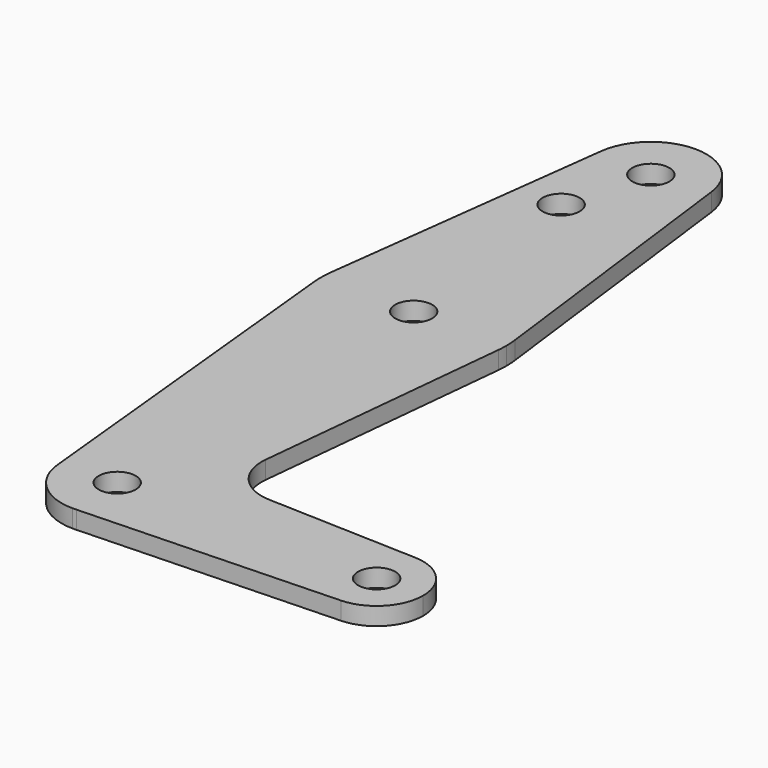
from build123d import *

# Parameters (mm, degrees)
F0_R     = 3.175
F1_DEPTH = 3.048


with BuildPart() as f1:
    # F0 (on Top) → F1 (new body)
    with BuildSketch(Plane.XY):
        with BuildLine():
            ThreePointArc((0.666693, -9.501639), (6.966917, -6.495205), (9.525, 0))
            ThreePointArc((9.525, 0), (-0.476848, 9.513056), (-9.477255, -0.9525))
            ThreePointArc((-9.477255, -0.9525), (-6.389564, -7.063929), (0, -9.525))
            Line((0, -9.525), (0.666693, -9.501639))
        make_face()
        Circle(F0_R, mode=Mode.SUBTRACT)
        with BuildLine():
            ThreePointArc((-9.477255, -0.9525), (-0.476848, 9.513056), (9.525, 0))
            ThreePointArc((9.525, 0), (6.966917, -6.495205), (0.666693, -9.501639))
            Line((0.666693, -9.501639), (44.728838, -7.957703))
            ThreePointArc((44.728838, -7.957703), (36.487413, 0), (44.728838, 7.957703))
            Line((44.728838, 7.957703), (18.973847, 8.860157))
            ThreePointArc((18.973847, 8.860157), (13.263735, 11.576393), (11.341902, 17.600501))
            Line((11.341902, 17.600501), (15.795426, 61.9125))
            ThreePointArc((15.795426, 61.9125), (0, 47.625), (-15.795426, 61.9125))
            Line((-15.795426, 61.9125), (-9.477255, -0.9525))
        make_face()
        with BuildLine():
            ThreePointArc((0, -9.525), (0.333551, -9.519158), (0.666693, -9.501639))
            Line((0.666693, -9.501639), (0, -9.525))
        make_face()
        with BuildLine():
            ThreePointArc((-15.750488, 65.484375), (-15.873744, 63.699705), (-15.795426, 61.9125))
            ThreePointArc((-15.795426, 61.9125), (0, 47.625), (15.795426, 61.9125))
            ThreePointArc((15.795426, 61.9125), (15.855094, 62.705253), (15.875, 63.5))
            ThreePointArc((15.875, 63.5), (15.843841, 64.494139), (15.750488, 65.484375))
            ThreePointArc((15.750488, 65.484375), (0, 79.375), (-15.750488, 65.484375))
        make_face()
        with Locations((0, 63.5)):
            Circle(F0_R, mode=Mode.SUBTRACT)
        with BuildLine():
            ThreePointArc((44.728838, 7.957703), (36.487413, 0), (44.728838, -7.957703))
            ThreePointArc((44.728838, -7.957703), (50.178135, -5.530937), (52.412587, 0))
            ThreePointArc((52.412587, 0), (50.178135, 5.530937), (44.728838, 7.957703))
        make_face()
        with Locations((44.45, 0)):
            Circle(F0_R, mode=Mode.SUBTRACT)
        with BuildLine():
            Line((-9.450293, 115.490625), (-15.750488, 65.484375))
            ThreePointArc((-15.750488, 65.484375), (0, 79.375), (15.750488, 65.484375))
            Line((15.750488, 65.484375), (9.450293, 115.490625))
            ThreePointArc((9.450293, 115.490625), (9.506305, 114.896483), (9.525, 114.3))
            ThreePointArc((9.525, 114.3), (-0.596483, 104.793695), (-9.450293, 115.490625))
        make_face()
        with Locations((-3.954152, 100.0252)):
            Circle(F0_R, mode=Mode.SUBTRACT)
        with BuildLine():
            ThreePointArc((9.450293, 115.490625), (0, 123.825), (-9.450293, 115.490625))
            ThreePointArc((-9.450293, 115.490625), (-0.596483, 104.793695), (9.525, 114.3))
            ThreePointArc((9.525, 114.3), (9.506305, 114.896483), (9.450293, 115.490625))
        make_face()
        with Locations((0, 114.3)):
            Circle(F0_R, mode=Mode.SUBTRACT)
    extrude(amount=F1_DEPTH)


solid = f1.part
